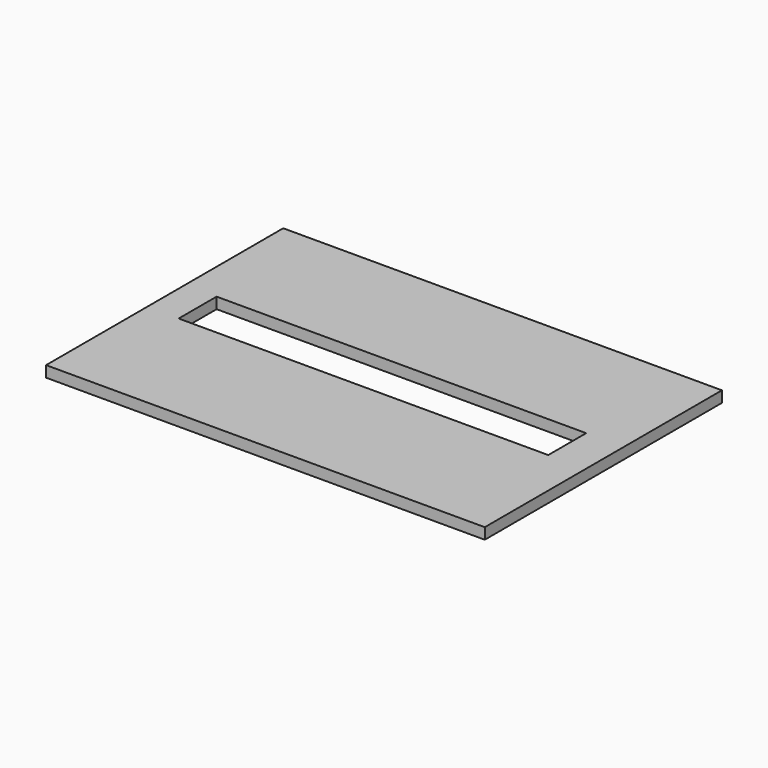
from build123d import *

# Parameters (mm, degrees)
F0_W          = 71.3072959334
F0_H          = 48.1806946918
F1_DEPTH      = 1.8
F2_W          = 60.0752867758
F2_H          = 7.7070258558
F3_DEPTH      = 25
F3_DEPTH_BACK = 25


with BuildPart() as f1:
    # F0 (on Top) → F1 (new body)
    with BuildSketch(Plane.XY):
        with Locations((4.9243485555, -12.0357670821)):
            Rectangle(F0_W, F0_H)
    extrude(amount=F1_DEPTH)

    # F2 (on Top) → F3 (cut, two sides)
    with BuildSketch(Plane.XY) as f3_sk:
        with Locations((4.4463630766, -11.7581561208)):
            Rectangle(F2_W, F2_H)
    extrude(amount=-F3_DEPTH, mode=Mode.SUBTRACT)
    extrude(f3_sk.sketch, amount=F3_DEPTH_BACK, mode=Mode.SUBTRACT)


solid = f1.part
